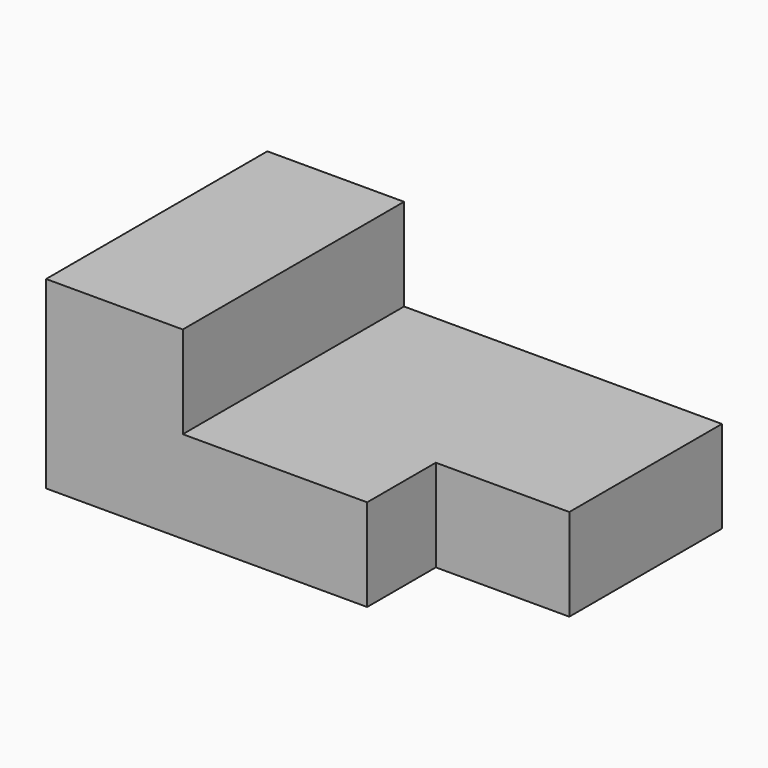
from build123d import *

# Parameters (mm, degrees)
F0_W     = 71.5
F0_H     = 43.5
F1_DEPTH = 29
F2_W     = 50
F2_H     = 43.5
F3_DEPTH = 14.5
F4_W     = 21
F4_H     = 13.5
F5_DEPTH = 14.501


with BuildPart() as f1:
    # F0 (on Top) → F1 (new body)
    with BuildSketch(Plane.XY):
        with Locations((35.75, 21.75)):
            Rectangle(F0_W, F0_H)
    extrude(amount=F1_DEPTH)

    # F2 (on face) → F3 (cut)
    with BuildSketch(Plane.XY.offset(29)):
        with Locations((46.5, 21.75)):
            Rectangle(F2_W, F2_H)
    extrude(amount=-F3_DEPTH, mode=Mode.SUBTRACT)

    # F4 (on face) → F5 (cut, through all)
    with BuildSketch(Plane.XY.offset(14.5)):
        with Locations((61, 6.75)):
            Rectangle(F4_W, F4_H)
    extrude(amount=-F5_DEPTH, mode=Mode.SUBTRACT)


solid = f1.part
